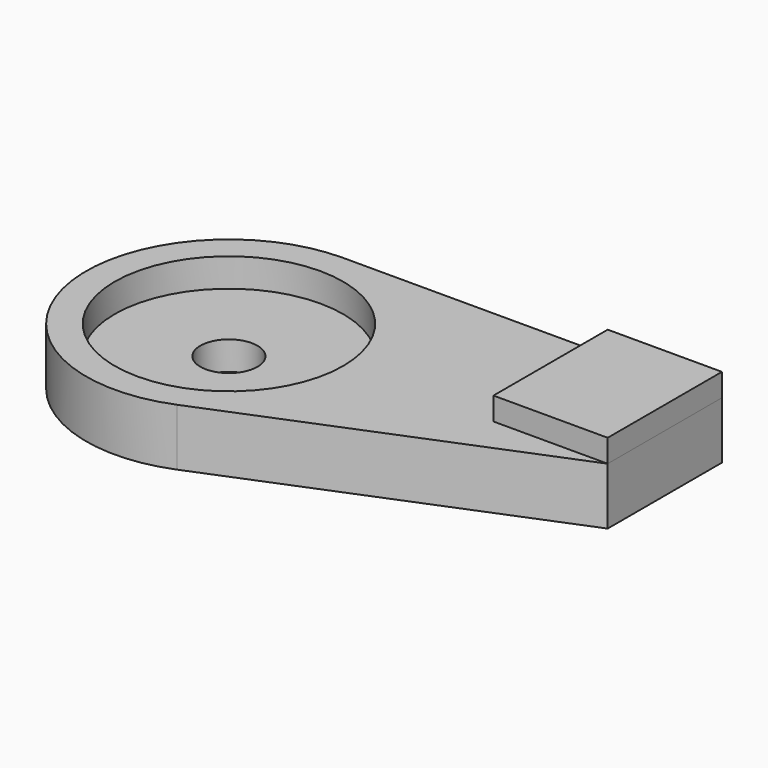
from build123d import *

# Parameters (mm, degrees)
F1_DEPTH = 10
F2_R     = 20
F3_DEPTH = 5
F4_R     = 5
F5_DEPTH = 25
F6_W     = 20
F6_H     = 25
F7_DEPTH = 4


with BuildPart() as f1:
    # F0 (on Top) → F1 (new body)
    with BuildSketch(Plane.XY):
        with BuildLine():
            ThreePointArc((9.424603, -23.155493), (20.743855, -13.953224), (25, 0))
            ThreePointArc((25, 0), (17.67767, 17.67767), (0, 25))
            ThreePointArc((0, 25), (-24.53454, -4.801701), (9.424603, -23.155493))
        make_face()
        with BuildLine():
            ThreePointArc((0, 25), (17.67767, 17.67767), (25, 0))
            ThreePointArc((25, 0), (20.743855, -13.953224), (9.424603, -23.155493))
            Line((9.424603, -23.155493), (66.315793, 0))
            Line((66.315793, 0), (66.315793, 25))
            Line((66.315793, 25), (0, 25))
        make_face()
        with BuildLine():
            ThreePointArc((9.424603, -23.155493), (20.743855, -13.953224), (25, 0))
            ThreePointArc((25, 0), (17.67767, 17.67767), (0, 25))
            ThreePointArc((0, 25), (-24.53454, -4.801701), (9.424603, -23.155493))
        make_face()
        with BuildLine():
            ThreePointArc((0, 25), (17.67767, 17.67767), (25, 0))
            ThreePointArc((25, 0), (20.743855, -13.953224), (9.424603, -23.155493))
            Line((9.424603, -23.155493), (66.315793, 0))
            Line((66.315793, 0), (66.315793, 25))
            Line((66.315793, 25), (0, 25))
        make_face()
    extrude(amount=F1_DEPTH)

    # F2 (on face) → F3 (cut)
    with BuildSketch(Plane.XY.offset(10)):
        Circle(F2_R)
        Circle(F2_R)
    extrude(amount=-F3_DEPTH, mode=Mode.SUBTRACT)

    # F4 (on face) → F5 (cut)
    with BuildSketch(Plane.XY.offset(5)):
        Circle(F4_R)
    extrude(amount=-F5_DEPTH, mode=Mode.SUBTRACT)


with BuildPart() as f7:
    # F6 (on face) → F7 (new body)
    with BuildSketch(Plane.XY.offset(10)):
        with Locations((56.315793, 12.5)):
            Rectangle(F6_W, F6_H)
    extrude(amount=F7_DEPTH)


solid = Compound([f1.part, f7.part])
